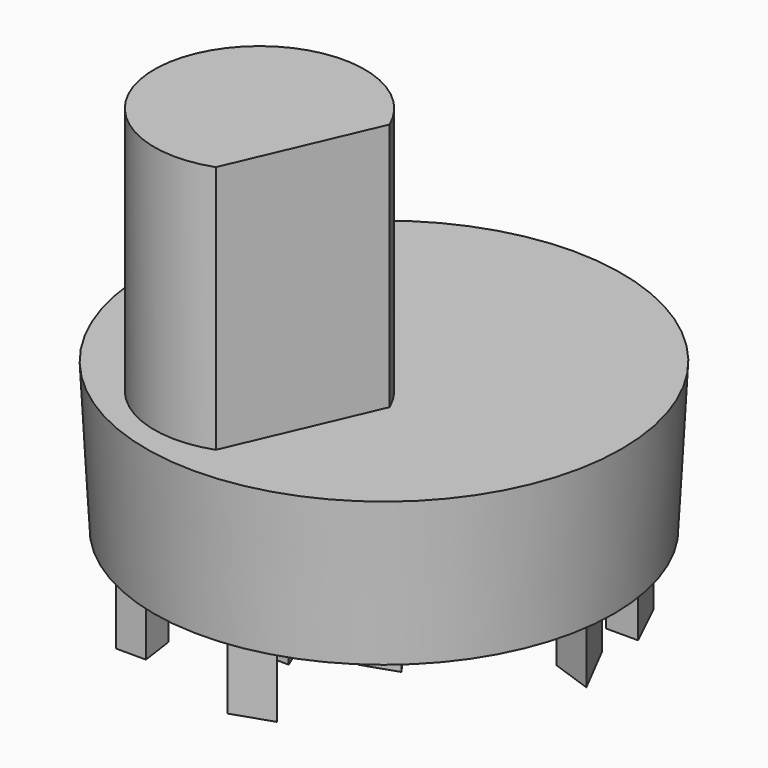
from build123d import *

# Parameters (mm, degrees)
F0_R     = 70.4060521859
F1_DEPTH = 45.212
F1_TAPER = -3
F4_DEPTH = 25.4
F6_DEPTH = 76.2


with BuildPart() as f1:
    # F0 (on Top) → F1 (new body)
    with BuildSketch(Plane.XY):
        Circle(F0_R)
    extrude(amount=F1_DEPTH, taper=F1_TAPER)

    # F3 (on face) → F4 (join)
    with BuildSketch(Plane.XY):
        Polygon((13.2651496679, 8.6820758879), (22.1880245954, 8.6820758879), (20.0088638812, 20.2589873224), align=None)
        Polygon((26.7175994813, 37.1265895665), (39.3666066229, 41.3835719228), (26.7175994813, 50.9552955627), align=None)
        Polygon((0, 41.3835719228), (0, 62.2292943299), (-9.2889685184, 54.0895685554), align=None)
        Polygon((-17.2152053565, 4.2226207443), (-10.1358499378, 0), (-11.7327948169, 13.4140530589), align=None)
        Polygon((-12.0866000652, -31.0505852103), (-4.3377871625, -31.0505852103), (-10.1358499378, -17.055625096), align=None)
        Polygon((0, -59.9799224224), (12.0000867173, -55.9413321316), (0, -43.2448089123), align=None)
        Polygon((45.8979159594, 8.6820758879), (58.5819035769, 4.2226207443), (50.1223825414, 20.6976876816), align=None)
        Polygon((-40.3976216912, 35.750195384), (-30.278051272, 30.9688523412), (-35.5101494777, 46.0943850381), align=None)
        Polygon((-52.9398620129, -27.6039075106), (-45.7244627178, -17.1867813915), (-56.9789598161, -15.6023127936), align=None)
        Polygon((8.7098376591, -20.6725607113), (19.0673265606, -17.1867813915), (12.0000867173, -7.1116369218), align=None)
        Polygon((-38.8014949858, 4.2226207443), (-30.278051272, 4.2226207443), (-34.1327454541, 15.676286782), align=None)
        Polygon((-41.7802073061, -50.3433160484), (-32.6245762408, -50.3433160484), (-34.0931266546, -39.8950539529), align=None)
        Polygon((43.1729927659, 30.9688523412), (53.0351176858, 30.9688523412), (45.9125488997, 45.8067990839), align=None)
    extrude(amount=-F4_DEPTH)

    # F5 (on face) → F6 (join)
    with BuildSketch(Plane.XY.offset(45.212)):
        with BuildLine():
            Line((-2.7060096618, -60.9949491918), (15.9434843808, -17.7769623697))
            ThreePointArc((15.9434843808, -17.7769623697), (-43.1665021025, -17.9025504898), (-2.7060096618, -60.9949491918))
        make_face()
    extrude(amount=F6_DEPTH)


solid = f1.part
